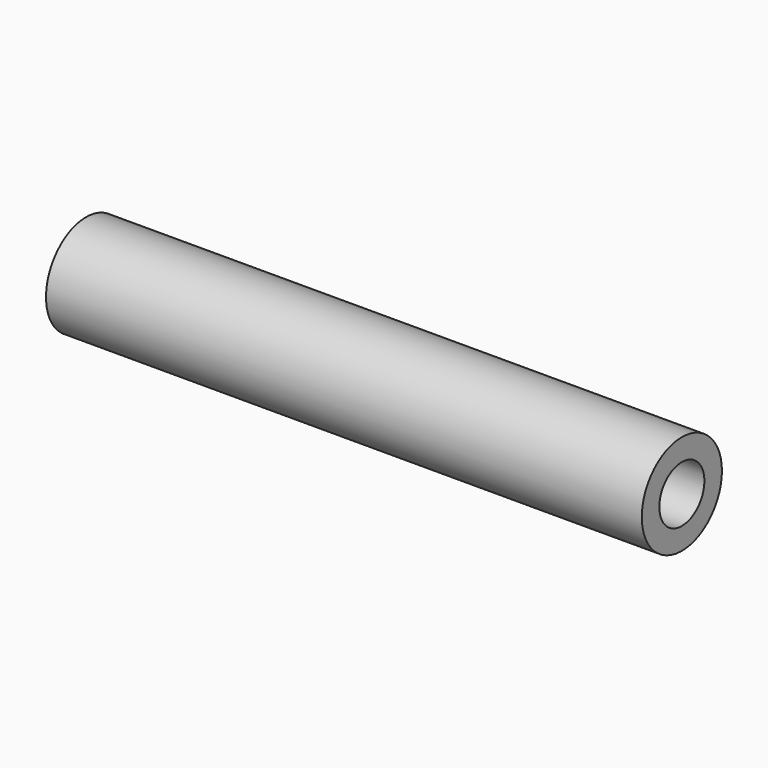
from build123d import *

# Parameters (mm, degrees)
F0_W = 67.15554
F0_H = 5.646352
F3_D = 6.35


with BuildPart() as f2:
    # F0 (on Top) → F2 (revolve)
    with BuildSketch(Plane.XY):
        with Locations((-33.57777, 2.823176)):
            Rectangle(F0_W, F0_H)
    revolve(axis=Axis((-33.57777, 0, 0), (-1, 0, 0)))

    # F3 (through all)
    with Locations(Plane.YZ):
        with Locations((0, 0)):
            Hole(F3_D / 2)


solid = f2.part
